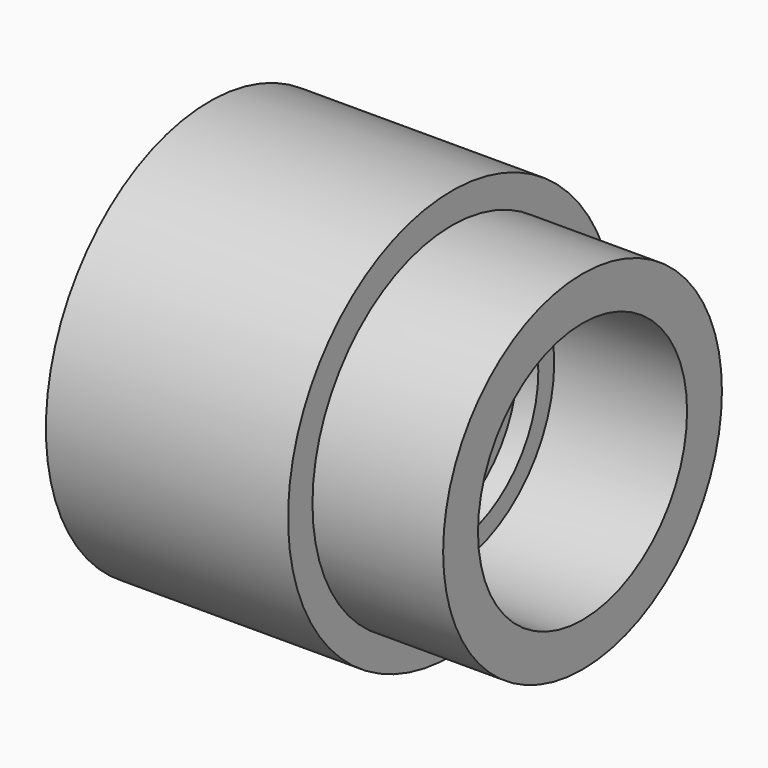
from build123d import *


with BuildPart() as f1:
    # F0 (on Top) → F1 (revolve)
    with BuildSketch(Plane.XY):
        Polygon((-17.516378, 20.32), (-17.516378, 0), (-15.992378, 0), (-15.992378, 16.1544), (-12.944378, 16.1544), (-12.944378, 19.05), (6.423122, 19.05), (6.423122, 25.4), (-12.626878, 25.4), (-12.626878, 29.845), (-47.932878, 29.845), (-47.932878, 27.305), (-18.976878, 27.305), (-18.976878, 22.225), (-22.532878, 22.225), (-22.532878, 20.32), align=None)
    revolve(axis=Axis((48.909422, 0, 0), (1, 0, 0)))


solid = f1.part
